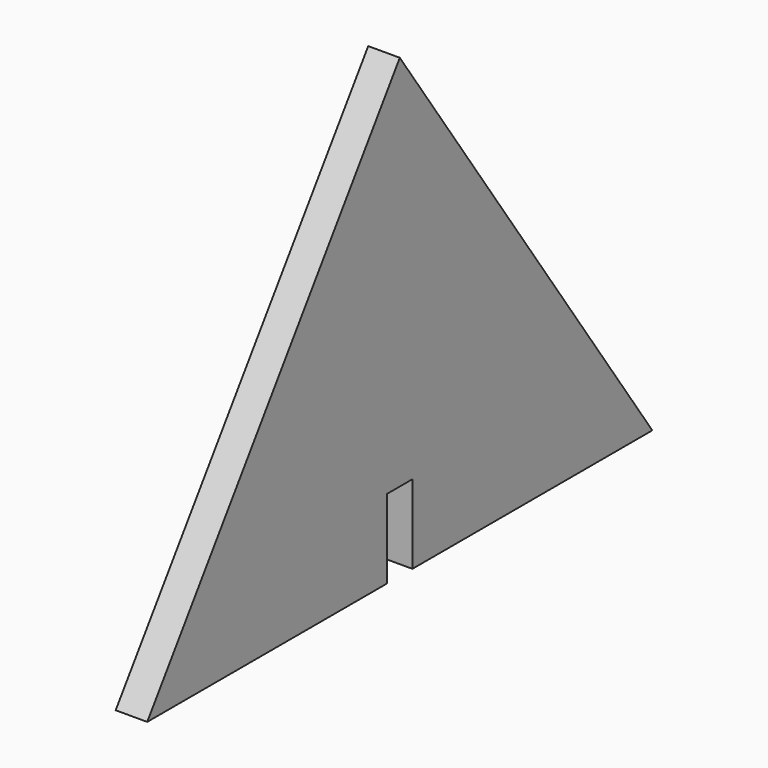
from build123d import *

# Parameters (mm, degrees)
PAD_DEPTH = 4


with BuildPart() as part:
    # Sketch → Pad (new body)
    with BuildSketch(Plane.YZ):
        Polygon((0, 58), (-40, 0.173901), (-2, 0.173901), (-2, 10.173901), (2, 10.173901), (2, 0.173901), (40, 0.173901), align=None)
    extrude(amount=PAD_DEPTH)


solid = part.part
